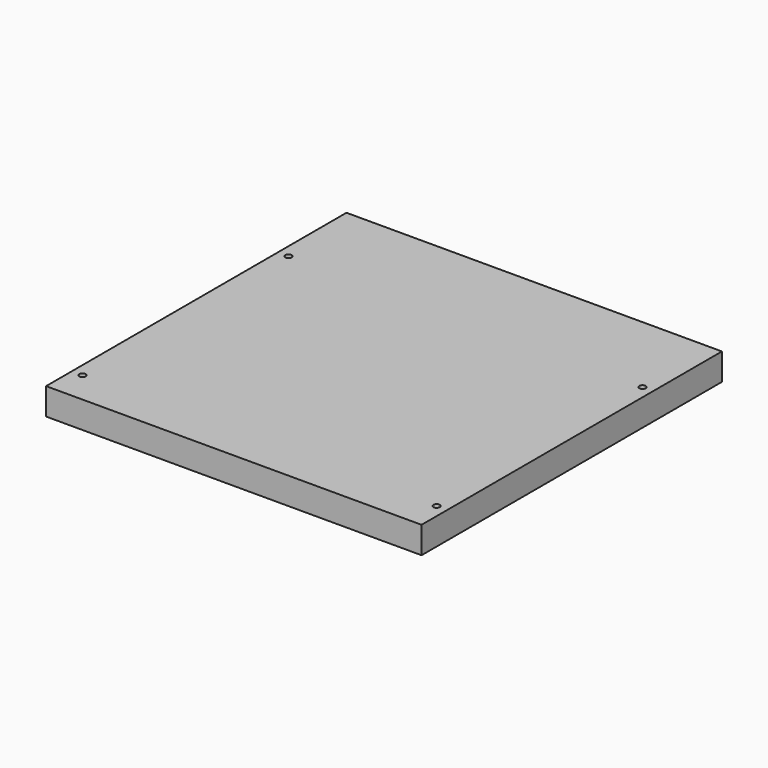
from build123d import *

# Parameters (mm, degrees)
F0_W     = 350
F0_H     = 300
F0_H_2   = 50
F1_DEPTH = 25
F2_R     = 3
F3_DEPTH = 25.001


with BuildPart() as f1:
    # F0 (on Top) → F1 (new body)
    with BuildSketch(Plane.XY):
        with Locations((175, 150)):
            Rectangle(F0_W, F0_H)
        with Locations((175, 325)):
            Rectangle(F0_W, F0_H_2)
    extrude(amount=F1_DEPTH)

    # F2 (on face) → F3 (cut, through all)
    with BuildSketch(Plane.XY.offset(25)):
        with Locations((10, 270)):
            Circle(F2_R)
        with Locations((340, 270)):
            Circle(F2_R)
        with Locations((340, 30)):
            Circle(F2_R)
        with Locations((10, 30)):
            Circle(F2_R)
    extrude(amount=-F3_DEPTH, mode=Mode.SUBTRACT)


solid = f1.part
